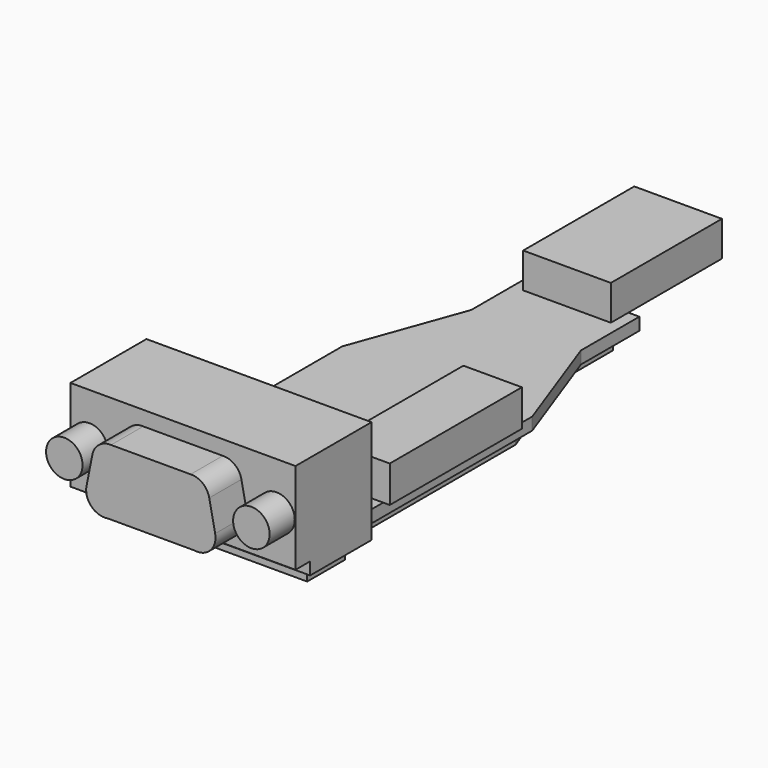
from build123d import *

# Parameters (mm, degrees)
F1_DEPTH  = 1.7
F2_W      = 12
F2_H      = 19
F3_DEPTH  = 4.8
F4_W      = 30.8
F4_H      = 13
F5_DEPTH  = 12.5
F7_DEPTH  = 5.5
F6_R      = 2.5
F8_DEPTH  = 4.3
F9_W      = 8
F9_H      = 22.6
F10_DEPTH = 5
F12_DEPTH = 2.2
F13_W     = 8
F13_H     = 4
F14_DEPTH = 6


with BuildPart() as f1:
    # F0 (on Top) → F1 (new body)
    with BuildSketch(Plane.XY):
        Polygon((7.5, 25.2), (0, 25.2), (-7.5, 25.2), (-7.5, 15.2), (-13, 0), (-13, -30.5), (-15.4, -30.5), (-15.4, -41), (0, -41), (15.4, -41), (15.4, -30.5), (13, -30.5), (13, 0), (7.5, 15.2), align=None)
    extrude(amount=F1_DEPTH)

    # F2 (on face) → F3 (join)
    with BuildSketch(Plane.XY.offset(1.7)):
        with Locations((0, 31.7)):
            Rectangle(F2_W, F2_H)
    extrude(amount=F3_DEPTH)

    # F4 (on face) → F5 (join)
    with BuildSketch(Plane.XY.offset(1.7)):
        with Locations((0, -37)):
            Rectangle(F4_W, F4_H)
    extrude(amount=F5_DEPTH)

    # F6 (on face) → F7 (join)
    with BuildSketch(Plane.XZ.offset(43.5)):
        with BuildLine():
            ThreePointArc((-5.446703, 12.2), (-7.094675, 11.666119), (-8, 10.189221))
            Line((-8, 10.189221), (-8.802074, 6.152148))
            ThreePointArc((-8.802074, 6.152148), (-8.142812, 3.922615), (-5.933, 3.2))
            Line((-5.933, 3.2), (5.933, 3.2))
            ThreePointArc((5.933, 3.2), (8.142812, 3.922615), (8.802074, 6.152148))
            Line((8.802074, 6.152148), (8, 10.189221))
            ThreePointArc((8, 10.189221), (7.094675, 11.666119), (5.446703, 12.2))
            Line((5.446703, 12.2), (-5.446703, 12.2))
        make_face()
    extrude(amount=F7_DEPTH)

    # F6 (on face) → F8 (join)
    with BuildSketch(Plane.XZ.offset(43.5)):
        with Locations((-12.8, 7.7)):
            Circle(F6_R)
        with Locations((12.8, 7.7)):
            Circle(F6_R)
    extrude(amount=F8_DEPTH)

    # F9 (on face) → F10 (join)
    with BuildSketch(Plane.XY.offset(1.7)):
        with Locations((9.9, -14.2)):
            Rectangle(F9_W, F9_H)
    extrude(amount=F10_DEPTH)

    # F11 (on face) → F12 (join)
    with BuildSketch(Plane(origin=(0, 0, 0), x_dir=(1, 0, 0), z_dir=(0, 0, -1))):
        Polygon((-11, 0.350715), (-5.5, -14.849285), (-5.5, -23.2), (5.5, -23.2), (5.5, -14.849285), (11, 0.350715), (11, 32.5), (13.4, 32.5), (13.4, 39), (-13.4, 39), (-13.4, 32.5), (-11, 32.5), align=None)
    extrude(amount=F12_DEPTH)

    # F13 (on face) → F14 (join)
    with BuildSketch(Plane.XY.offset(1.7)):
        with Locations((0, -26)):
            Rectangle(F13_W, F13_H)
    extrude(amount=F14_DEPTH)


with BuildPart() as f16_1:
    # F16: copy of F1
    add(f1.part)


solid = Compound([f1.part, f16_1.part])
